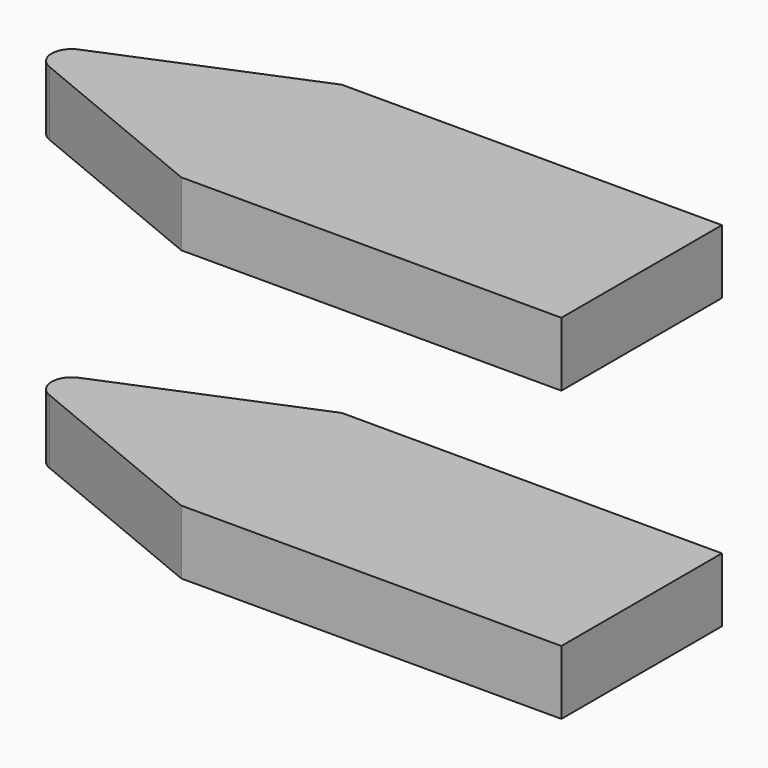
from build123d import *

# Parameters (mm, degrees)
F2_W          = 73.5
F2_H          = 8
F3_DEPTH      = 12.5
F3_DEPTH_BACK = 12.5
F4_DEPTH      = 12.5
F4_DEPTH_BACK = 12.5
F6_DEPTH      = 44.001


with BuildPart() as f3:
    # F2 (on Front) → F3 (new body, two sides)
    with BuildSketch(Plane.XZ) as f3_sk:
        with Locations((13.25, 18)):
            Rectangle(F2_W, F2_H)
    extrude(amount=F3_DEPTH)
    extrude(f3_sk.sketch, amount=-F3_DEPTH_BACK)


with BuildPart() as f4:
    # F2 (on Front) → F4 (new body, two sides)
    with BuildSketch(Plane.XZ) as f4_sk:
        with Locations((13.25, -18)):
            Rectangle(F2_W, F2_H)
    extrude(amount=F4_DEPTH)
    extrude(f4_sk.sketch, amount=-F4_DEPTH_BACK)


with BuildPart() as f6_tool:
    # F5 (on face) → F6 (new body, through all)
    with BuildSketch(Plane.XY.offset(22)):
        with BuildLine():
            ThreePointArc((-23.5, 0), (-23.078674, 1.388926), (-21.956709, 2.309699))
            Line((-21.956709, 2.309699), (2.644855, 12.5))
            Line((2.644855, 12.5), (-23.5, 12.5))
            Line((-23.5, 12.5), (-23.5, 0))
        make_face()
        with BuildLine():
            ThreePointArc((-21.956709, -2.309699), (-23.078674, -1.388926), (-23.5, 0))
            Line((-23.5, 0), (-23.5, -12.5))
            Line((-23.5, -12.5), (2.644855, -12.5))
            Line((2.644855, -12.5), (-21.956709, -2.309699))
        make_face()
    extrude(amount=-F6_DEPTH)


with BuildPart() as f3_1:
    add(f3.part)

    # F6: cut by f6_tool
    add(f6_tool.part, mode=Mode.SUBTRACT)


with BuildPart() as f4_1:
    add(f4.part)

    # F6: cut by f6_tool
    add(f6_tool.part, mode=Mode.SUBTRACT)


solid = Compound([f3_1.part, f4_1.part])
